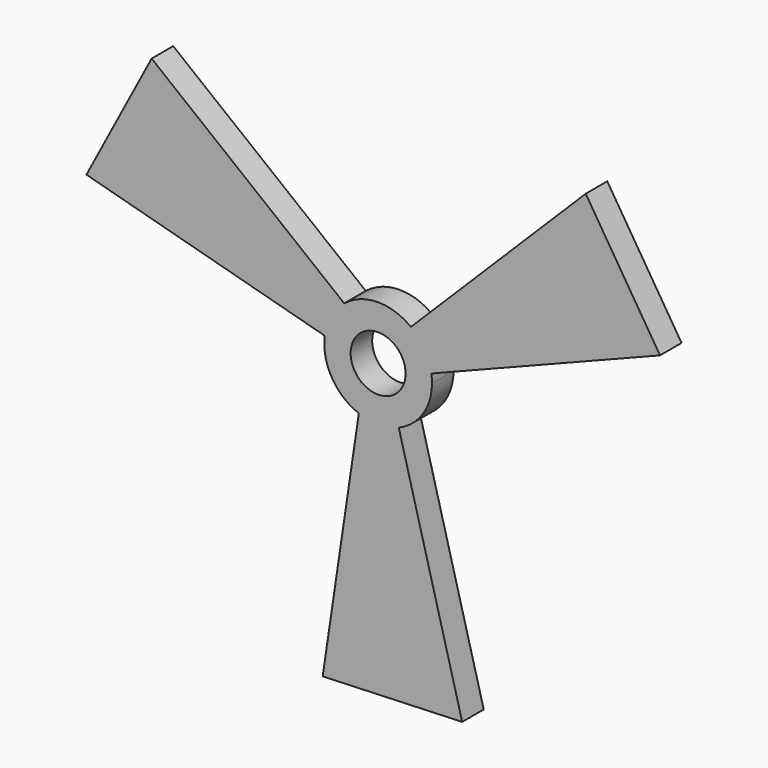
from build123d import *

# Parameters (mm, degrees)
F0_R     = 6.477
F1_DEPTH = 6.35


with BuildPart() as f1:
    # F0 (on Front) → F1 (new body)
    with BuildSketch(Plane.XZ):
        with BuildLine():
            ThreePointArc((4.866512, -11.730603), (10.561598, -7.052847), (12.7, 0))
            ThreePointArc((12.7, 0), (12.660733, 0.997921), (12.543174, 1.98967))
            ThreePointArc((12.543174, 1.98967), (10.911916, 6.497698), (7.725744, 10.079825))
            ThreePointArc((7.725744, 10.079825), (-0.171214, 12.698846), (-7.994692, 9.867872))
            ThreePointArc((-7.994692, 9.867872), (-11.08313, 6.201147), (-12.592257, 1.650778))
            ThreePointArc((-12.592257, 1.650778), (-10.911916, -6.497698), (-4.548482, -11.857542))
            ThreePointArc((-4.548482, -11.857542), (0.171214, -12.698846), (4.866512, -11.730603))
        make_face()
        Circle(F0_R, mode=Mode.SUBTRACT)
        with BuildLine():
            ThreePointArc((7.725744, 10.079825), (10.911916, 6.497698), (12.543174, 1.98967))
            Line((12.543174, 1.98967), (66.454353, 23.278225))
            Line((66.454353, 23.278225), (48.93907, 51.140082))
            Line((48.93907, 51.140082), (7.725744, 10.079825))
        make_face()
        with BuildLine():
            Line((19.819075, -67.952519), (4.866512, -11.730603))
            ThreePointArc((4.866512, -11.730603), (0.171214, -12.698846), (-4.548482, -11.857542))
            Line((-4.548482, -11.857542), (-13.067642, -69.190271))
            Line((-13.067642, -69.190271), (19.819075, -67.952519))
        make_face()
        with BuildLine():
            ThreePointArc((-12.592257, 1.650778), (-11.08313, 6.201147), (-7.994692, 9.867872))
            Line((-7.994692, 9.867872), (-53.386711, 45.912046))
            Line((-53.386711, 45.912046), (-68.758146, 16.812437))
            Line((-68.758146, 16.812437), (-12.592257, 1.650778))
        make_face()
    extrude(amount=F1_DEPTH)


solid = f1.part
